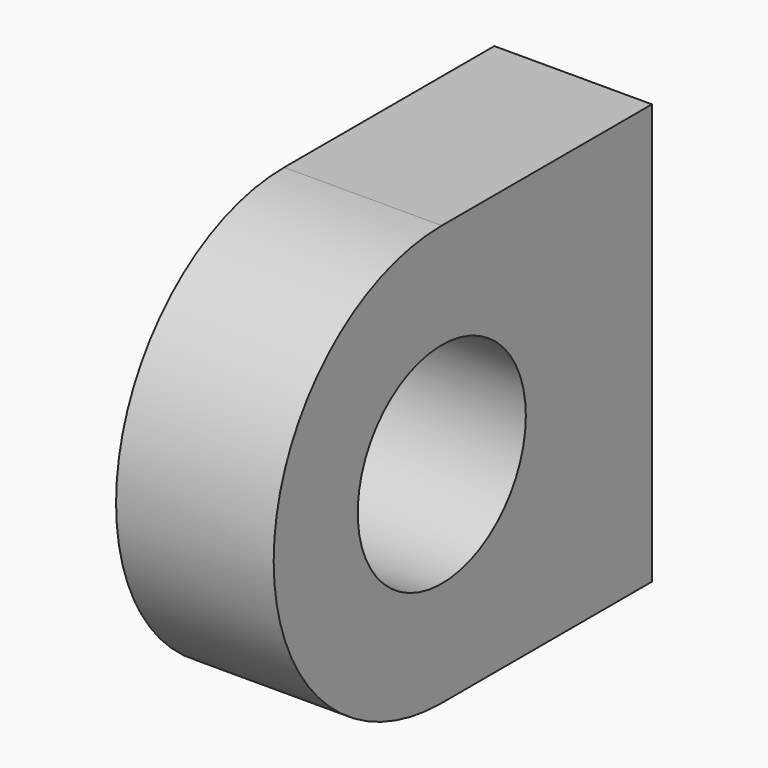
from build123d import *

# Parameters (mm, degrees)
F0_R     = 12.7
F1_DEPTH = 9.525


with BuildPart() as f1:
    # F0 (on Right) → F1 (new body, symmetric)
    with BuildSketch(Plane.YZ):
        with BuildLine():
            Line((31.75, 25.4), (0, 25.4))
            ThreePointArc((0, 25.4), (-25.4, 0), (0, -25.4))
            Line((0, -25.4), (31.75, -25.4))
            Line((31.75, -25.4), (31.75, 25.4))
        make_face()
        Circle(F0_R, mode=Mode.SUBTRACT)
    extrude(amount=F1_DEPTH, both=True)


solid = f1.part
